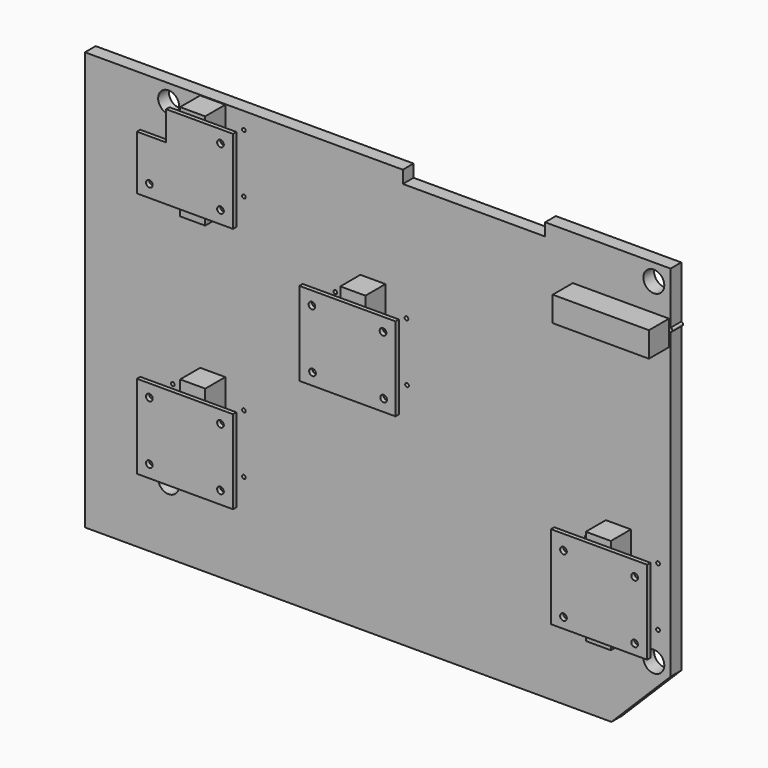
from build123d import *

# Parameters (mm, degrees)
F0_R      = 12.5
F0_R_2    = 2.2070756532
F1_DEPTH  = 16
F2_W      = 30
F2_H      = 115
F2_W_2    = 115
F2_H_2    = 30
F3_DEPTH  = 30
F5_W      = 47.7929243468
F5_H      = 100
F5_W_2    = 30
F5_W_3    = 37.2070756532
F6_DEPTH  = 5
F7_W      = 115
F7_H      = 100
F8_DEPTH  = 5
F10_W     = 115
F10_H     = 100
F11_DEPTH = 5
F9_W      = 30
F9_H      = 100
F9_W_2    = 37.2870707512
F13_DEPTH = 5
F14_D     = 8
F14_DEPTH = 35.001


with BuildPart() as f1:
    # F0 (on Front) → F1 (new body)
    with BuildSketch(Plane.XZ):
        with BuildLine():
            Line((-699.9135494232, 64.4235223532), (-699.9135494232, -435.5764776468))
            Line((-699.9135494232, -435.5764776468), (-70.5764776468, -435.5764776468))
            Line((-70.5764776468, -435.5764776468), (0.0864505768, -364.9135494232))
            Line((0.0864505768, -364.9135494232), (0.0864505768, -2.20538188))
            ThreePointArc((0.0864505768, -2.20538188), (-2.2070756532, 0), (0.0864505768, 2.20538188))
            Line((0.0864505768, 2.20538188), (0.0864505768, 64.4235223532))
            Line((0.0864505768, 64.4235223532), (-149.9135494232, 64.4235223532))
            Line((-149.9135494232, 64.4235223532), (-149.9135494232, 49.4235223532))
            Line((-149.9135494232, 49.4235223532), (-319.9135494232, 49.4235223532))
            Line((-319.9135494232, 49.4235223532), (-319.9135494232, 64.4235223532))
            Line((-319.9135494232, 64.4235223532), (-699.9135494232, 64.4235223532))
        make_face()
        with Locations((-599.9135494232, -355.5764776468)):
            Circle(F0_R, mode=Mode.SUBTRACT)
        with Locations((-594.9135494232, -320.5764776468)):
            Circle(F0_R_2, mode=Mode.SUBTRACT)
        with Locations((-509.9135494232, -320.5764776468)):
            Circle(F0_R_2, mode=Mode.SUBTRACT)
        with Locations((-594.9135494232, -250.5764776468)):
            Circle(F0_R_2, mode=Mode.SUBTRACT)
        with Locations((-509.9135494232, -250.5764776468)):
            Circle(F0_R_2, mode=Mode.SUBTRACT)
        with Locations((-99.9135494232, -320.5764776468)):
            Circle(F0_R_2, mode=Mode.SUBTRACT)
        with Locations((-19.9135494232, -355.5764776468)):
            Circle(F0_R, mode=Mode.SUBTRACT)
        with Locations((-14.9135494232, -320.5764776468)):
            Circle(F0_R_2, mode=Mode.SUBTRACT)
        with Locations((-99.9135494232, -250.5764776468)):
            Circle(F0_R_2, mode=Mode.SUBTRACT)
        with Locations((-14.9135494232, -250.5764776468)):
            Circle(F0_R_2, mode=Mode.SUBTRACT)
        with Locations((-399.9135494232, -160.5764776468)):
            Circle(F0_R_2, mode=Mode.SUBTRACT)
        with Locations((-400.6345868111, -90.5764776468)):
            Circle(F0_R_2, mode=Mode.SUBTRACT)
        with Locations((-594.9135494232, -25.5764776468)):
            Circle(F0_R_2, mode=Mode.SUBTRACT)
        with Locations((-599.9135494232, 44.4235223532)):
            Circle(F0_R, mode=Mode.SUBTRACT)
        with Locations((-509.9135494232, -25.5764776468)):
            Circle(F0_R_2, mode=Mode.SUBTRACT)
        with Locations((-509.9135494232, 44.4235223532)):
            Circle(F0_R_2, mode=Mode.SUBTRACT)
        with Locations((-314.9135494232, -160.5764776468)):
            Circle(F0_R_2, mode=Mode.SUBTRACT)
        with Locations((-315.6345868111, -90.5764776468)):
            Circle(F0_R_2, mode=Mode.SUBTRACT)
        with Locations((-19.9135494232, 44.4235223532)):
            Circle(F0_R, mode=Mode.SUBTRACT)
        with BuildLine():
            ThreePointArc((0.0864505768, 2.20538188), (-2.2070756532, 0), (0.0864505768, -2.20538188))
            Line((0.0864505768, -2.20538188), (0.0864505768, 2.20538188))
        make_face()
        with BuildLine():
            Line((0.0864505768, 2.20538188), (0.0864505768, -2.20538188))
            ThreePointArc((0.0864505768, -2.20538188), (1.5909094729, -1.5297679523), (2.2070756532, 0))
            ThreePointArc((2.2070756532, 0), (1.5909094729, 1.5297679523), (0.0864505768, 2.20538188))
        make_face()
    extrude(amount=-F1_DEPTH)

    # F2 (on Front) → F3 (join)
    with BuildSketch(Plane.XZ):
        with Locations((-547.1206250764, -280.2835533)):
            Rectangle(F2_W, F2_H)
        with Locations((-355.6849062443, -120.1901584864)):
            Rectangle(F2_W, F2_H)
        with Locations((-547.2006201744, 6.2219314277)):
            Rectangle(F2_W, F2_H)
        with Locations((-62.3018592596, -282.930508256)):
            Rectangle(F2_W, F2_H)
        with Locations((-59.2683969438, -3.8263390213)):
            Rectangle(F2_W_2, F2_H_2)
    extrude(amount=F3_DEPTH)

    # F5 (on face) → F6 (join)
    with BuildSketch(Plane.XZ.offset(30)):
        with Locations((-586.0170872498, -285.5764776468)):
            Rectangle(F5_W, F5_H)
        with Locations((-547.1206250764, -285.5764776468)):
            Rectangle(F5_W_2, F5_H)
        with Locations((-513.5170872498, -285.5764776468)):
            Rectangle(F5_W_3, F5_H)
    extrude(amount=F6_DEPTH)

    # F7 (on face) → F8 (join)
    with BuildSketch(Plane.XZ.offset(30)):
        with Locations((-57.4135494232, -282.930508256)):
            Rectangle(F7_W, F7_H)
    extrude(amount=F8_DEPTH)

    # F10 (on face) → F11 (join)
    with BuildSketch(Plane.XZ.offset(30)):
        with Locations((-358.1345868111, -124.6901584864)):
            Rectangle(F10_W, F10_H)
    extrude(amount=F11_DEPTH)

    # F9 (on face) → F13 (join)
    with BuildSketch(Plane.XZ.offset(30)):
        Polygon((-562.2006201744, -40.5764776468), (-562.2006201744, 59.4235223532), (-574.9135494232, 59.4235223532), (-574.9135494232, 24.4235223532), (-609.9135494232, 24.4235223532), (-609.9135494232, -40.5764776468), align=None)
        with Locations((-547.2006201744, 9.4235223532)):
            Rectangle(F9_W, F9_H)
        with Locations((-513.5570847988, 9.4235223532)):
            Rectangle(F9_W_2, F9_H)
    extrude(amount=F13_DEPTH)

    # F14 (through all, one way)
    with BuildSketch(Plane(origin=(0, 0, 0), x_dir=(1, 0, 0), z_dir=(0, 1, 0))):
        with Locations((-594.9135494232, 250.5764776468), (-594.9135494232, 320.5764776468), (-509.9135494232, 320.5764776468), (-509.9135494232, 250.5764776468), (-400.6345868111, 90.5764776468), (-315.6345868111, 90.5764776468), (-399.9135494232, 160.5764776468), (-314.9135494232, 160.5764776468), (-594.9135494232, 25.5764776468), (-509.9135494232, 25.5764776468), (-509.9135494232, -44.4235223532), (-99.9135494232, 320.5764776468), (-99.9135494232, 250.5764776468), (-14.9135494232, 320.5764776468), (-14.9135494232, 250.5764776468)):
            Circle(F14_D / 2)
    extrude(amount=-F14_DEPTH, mode=Mode.SUBTRACT)


solid = f1.part
